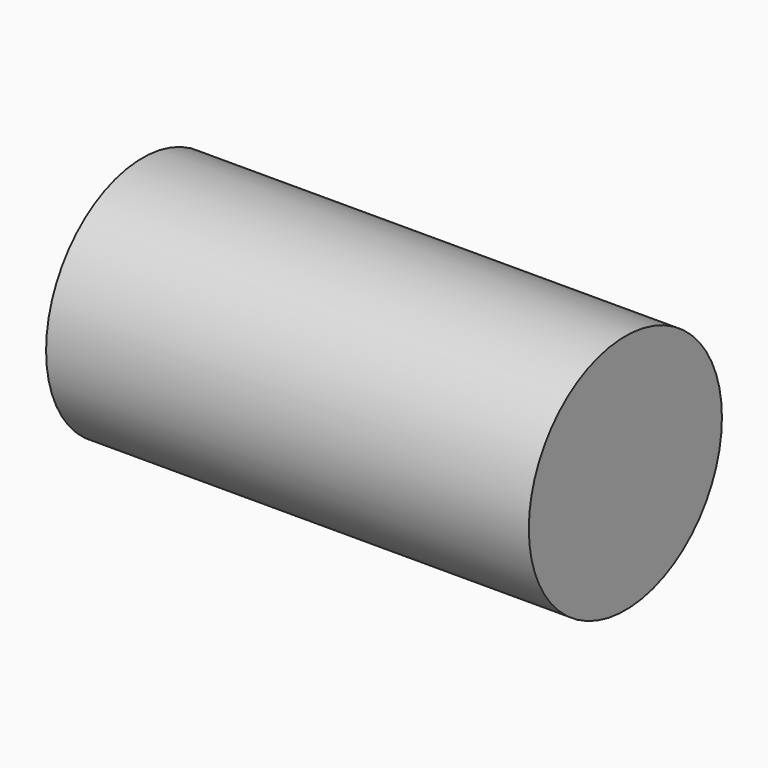
from build123d import *

# Parameters (mm, degrees)
F1_DEPTH = 12.7


with BuildPart() as f1:
    # F0 (on Right) → F1 (new body)
    with BuildSketch(Plane.YZ):
        with BuildLine():
            ThreePointArc((-3.175, 0), (0, -3.175), (3.175, 0))
            ThreePointArc((3.175, 0), (0, 3.175), (-3.175, 0))
        make_face()
    extrude(amount=F1_DEPTH)


solid = f1.part
